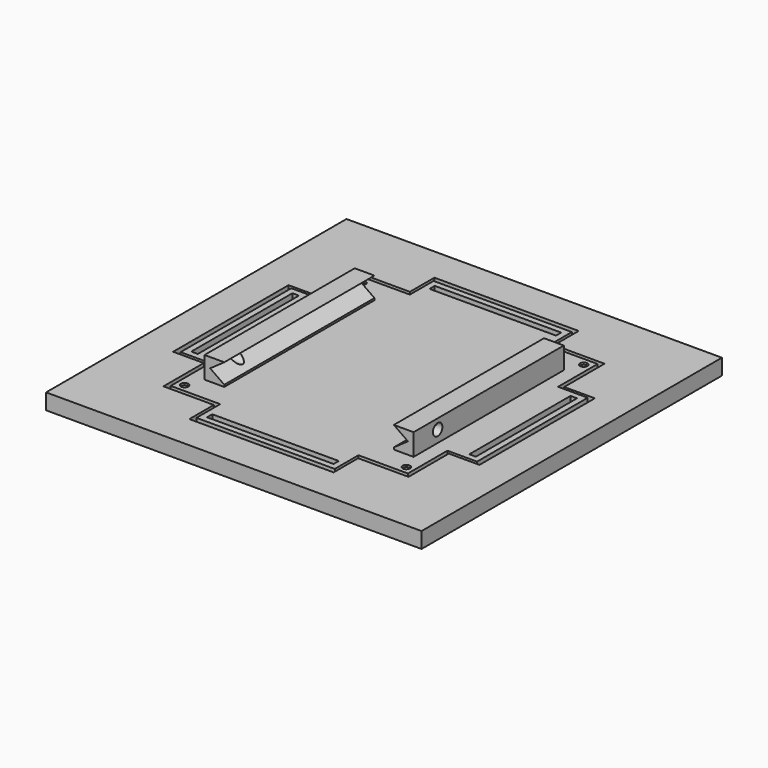
from build123d import *

# Parameters (mm, degrees)
SKETCH_W        = 190
SKETCH_H        = 190
PAD_DEPTH       = 8
POCKET005_DEPTH = 4
SKETCH009_R     = 4.5
POCKET006_DEPTH = 4.001
SKETCH010_W     = 3.3
SKETCH010_H     = 64
SKETCH010_W_2   = 64
SKETCH010_H_2   = 3.3
POCKET007_DEPTH = 4.001
SKETCH011_W     = 8
SKETCH011_H     = 70
SKETCH011_W_2   = 70
SKETCH011_H_2   = 8
POCKET008_DEPTH = 2
SKETCH001_W     = 150
SKETCH001_H     = 150
PAD002_DEPTH    = 4
POCKET_DEPTH    = 4.001
SKETCH002_R     = 1.9
SKETCH002_W     = 3.3
SKETCH002_H     = 64
SKETCH002_W_2   = 64
SKETCH002_H_2   = 3.3
POCKET001_DEPTH = 5
SKETCH003_R     = 2.95
POCKET002_DEPTH = 3
SKETCH004_W     = 10
SKETCH004_H     = 95
PAD001_DEPTH    = 11
POCKET003_DEPTH = 122.501
SKETCH006_R     = 3
POCKET004_DEPTH = 127.901


with BuildPart() as body:
    # Sketch → Pad (new body)
    with BuildSketch(Plane.XY):
        with Locations((95, 95)):
            Rectangle(SKETCH_W, SKETCH_H)
    extrude(amount=PAD_DEPTH)

    # Sketch008 (on Face6 of Pad) → Pocket005 (cut)
    with BuildSketch(Plane.XY.offset(8)):
        Polygon((17.5, 131.5), (17.5, 58.5), (33, 58.5), (33, 33), (58.5, 33), (58.5, 17.5), (131.5, 17.5), (131.5, 33), (157, 33), (157, 58.5), (172.5, 58.5), (172.5, 131.5), (157, 131.5), (157, 157), (131.5, 157), (131.5, 172.5), (58.5, 172.5), (58.5, 157), (33, 157), (33, 131.5), align=None)
    extrude(amount=-POCKET005_DEPTH, mode=Mode.SUBTRACT)

    # Sketch009 (on Face27 of Pocket005) → Pocket006 (cut, through all)
    with BuildSketch(Plane.XY.offset(4)):
        with Locations((38.9, 151.1)):
            Circle(SKETCH009_R)
        with Locations((151.1, 151.1)):
            Circle(SKETCH009_R)
        with Locations((151.1, 38.9)):
            Circle(SKETCH009_R)
        with Locations((38.9, 38.9)):
            Circle(SKETCH009_R)
    extrude(amount=-POCKET006_DEPTH, mode=Mode.SUBTRACT)

    # Sketch010 (on Face31 of Pocket006) → Pocket007 (cut, through all)
    with BuildSketch(Plane.XY.offset(4)):
        with Locations((24.65, 95)):
            Rectangle(SKETCH010_W, SKETCH010_H)
        with Locations((165.35, 95)):
            Rectangle(SKETCH010_W, SKETCH010_H)
        with Locations((95, 24.65)):
            Rectangle(SKETCH010_W_2, SKETCH010_H_2)
        with Locations((95, 165.35)):
            Rectangle(SKETCH010_W_2, SKETCH010_H_2)
    extrude(amount=-POCKET007_DEPTH, mode=Mode.SUBTRACT)

    # Sketch011 (on Face4 of Pocket007) → Pocket008 (cut)
    with BuildSketch(Plane(origin=(0, 0, 0), x_dir=(1, 0, 0), z_dir=(0, 0, -1))):
        with Locations((24.65, -95)):
            Rectangle(SKETCH011_W, SKETCH011_H)
        with Locations((95, -165.35)):
            Rectangle(SKETCH011_W_2, SKETCH011_H_2)
        with Locations((95, -24.65)):
            Rectangle(SKETCH011_W_2, SKETCH011_H_2)
        with Locations((165.35, -95)):
            Rectangle(SKETCH011_W, SKETCH011_H)
    extrude(amount=-POCKET008_DEPTH, mode=Mode.SUBTRACT)


with BuildPart() as basefloor:
    # Sketch001 → Pad002 (new body)
    with BuildSketch(Plane.XY):
        with Locations((75, 75)):
            Rectangle(SKETCH001_W, SKETCH001_H)
    extrude(amount=PAD002_DEPTH)

    # Sketch007 (on Face6 of Pad002) → Pocket (cut, through all)
    with BuildSketch(Plane.XY.offset(4)):
        Polygon((0, 110), (15, 110), (15, 135), (40, 135), (40, 150), (0, 150), align=None)
        Polygon((0, 40), (15, 40), (15, 15), (40, 15), (40, 0), (0, 0), align=None)
        Polygon((110, 150), (110, 135), (135, 135), (135, 110), (150, 110), (150, 150), align=None)
        Polygon((150, 40), (135, 40), (135, 15), (110, 15), (110, 0), (150, 0), align=None)
    extrude(amount=-POCKET_DEPTH, mode=Mode.SUBTRACT)

    # Sketch002 (on Face4 of Pocket) → Pocket001 (cut)
    with BuildSketch(Plane.XY.offset(4)):
        with Locations((18.9, 131.1)):
            Circle(SKETCH002_R)
        with Locations((131.1, 131.1)):
            Circle(SKETCH002_R)
        with Locations((131.1, 18.9)):
            Circle(SKETCH002_R)
        with Locations((18.9, 18.9)):
            Circle(SKETCH002_R)
        with Locations((4.65, 75)):
            Rectangle(SKETCH002_W, SKETCH002_H)
        with Locations((75, 145.35)):
            Rectangle(SKETCH002_W_2, SKETCH002_H_2)
        with Locations((145.35, 75)):
            Rectangle(SKETCH002_W, SKETCH002_H)
        with Locations((75, 4.65)):
            Rectangle(SKETCH002_W_2, SKETCH002_H_2)
    extrude(amount=-POCKET001_DEPTH, mode=Mode.SUBTRACT)

    # Sketch003 (on Face2 of Pocket001) → Pocket002 (cut)
    with BuildSketch(Plane(origin=(0, 0, 0), x_dir=(1, 0, 0), z_dir=(0, 0, -1))):
        with Locations((18.9, -131.1)):
            Circle(SKETCH003_R)
        with Locations((18.9, -18.9)):
            Circle(SKETCH003_R)
        with Locations((131.1, -18.9)):
            Circle(SKETCH003_R)
        with Locations((131.1, -131.1)):
            Circle(SKETCH003_R)
    extrude(amount=-POCKET002_DEPTH, mode=Mode.SUBTRACT)

    # Sketch004 (on Face4 of Pocket002) → Pad001 (join)
    with BuildSketch(Plane.XY.offset(4)):
        with Locations((27.1, 75)):
            Rectangle(SKETCH004_W, SKETCH004_H)
        with Locations((122.9, 75)):
            Rectangle(SKETCH004_W, SKETCH004_H)
    extrude(amount=PAD001_DEPTH)

    # Sketch005 (on Face52 of Pad001) → Pocket003 (cut, through all)
    with BuildSketch(Plane.XZ.offset(-27.5)):
        Polygon((24.96, 10), (32.1, 15), (32.1, 5), align=None)
        Polygon((117.9, 5), (125.04, 10), (117.9, 15), align=None)
    extrude(amount=-POCKET003_DEPTH, mode=Mode.SUBTRACT)

    # Sketch006 (on Face53 of Pocket003) → Pocket004 (cut, through all)
    with BuildSketch(Plane(origin=(22.1, 0, 0), x_dir=(0, -1, 0), z_dir=(-1, 0, 0))):
        with Locations((-42.7, 10)):
            Circle(SKETCH006_R)
    extrude(amount=-POCKET004_DEPTH, mode=Mode.SUBTRACT)


with BuildPart() as basefloor_1:
    # Body001 placement: moved
    add(basefloor.part.moved(Location((20, 20.1, 4))))


solid = Compound([body.part, basefloor_1.part])
